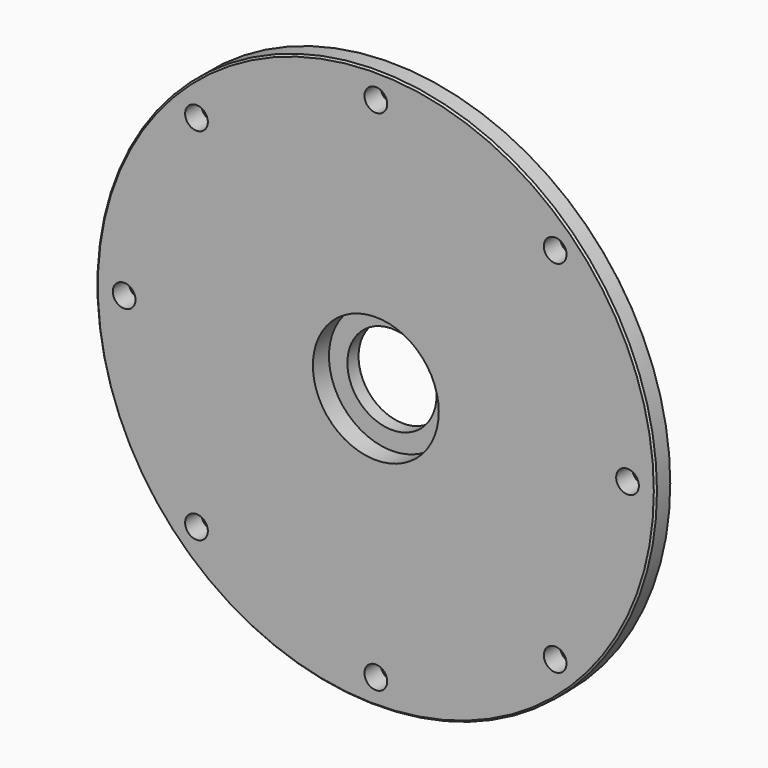
from build123d import *

# Parameters (mm, degrees)
F0_R     = 160
F0_R_2   = 6.5
F0_R_3   = 36
F1_DEPTH = 11.5
F2_SIZE  = 1
F3_R     = 122
F3_R_2   = 36
F3_R_3   = 25.5
F4_DEPTH = 8
F5_SIZE  = 1


with BuildPart() as f1:
    # F0 (on Front) → F1 (new body)
    with BuildSketch(Plane.XZ):
        with Locations((-53.132202721, 5.1132893958)):
            Circle(F0_R)
        with Locations((-155.6978265414, -97.8607830485)):
            Circle(F0_R_2, mode=Mode.SUBTRACT)
        with Locations((-53.132202721, -140.2307106042)):
            Circle(F0_R_2, mode=Mode.SUBTRACT)
        with Locations((49.4334210995, -97.8607830485)):
            Circle(F0_R_2, mode=Mode.SUBTRACT)
        with Locations((90.8079806329, 5.1103962891)):
            Circle(F0_R_2, mode=Mode.SUBTRACT)
        with Locations((-197.0651851107, 5.1132893958)):
            Circle(F0_R_2, mode=Mode.SUBTRACT)
        with Locations((-155.6978265414, 108.08736184)):
            Circle(F0_R_2, mode=Mode.SUBTRACT)
        with Locations((-53.132202721, 5.1132893958)):
            Circle(F0_R_3, mode=Mode.SUBTRACT)
        with Locations((-53.132202721, 150.4572893958)):
            Circle(F0_R_2, mode=Mode.SUBTRACT)
        with Locations((49.4375604441, 108.0832387485)):
            Circle(F0_R_2, mode=Mode.SUBTRACT)
    extrude(amount=F1_DEPTH)

    # F2
    f2_edges = [f1.edges().sort_by_distance(p)[0] for p in [
        (-213.132203, 0, 5.113289),
        (-213.132203, -11.5, 5.113289),
    ]]
    chamfer(f2_edges, length=F2_SIZE)

    # F3 (on face) → F4 (join)
    with BuildSketch(Plane.XZ):
        with Locations((-53.1101636589, 5.1305745728)):
            Circle(F3_R)
        with Locations((-53.132202721, 5.1132893958)):
            Circle(F3_R_2, mode=Mode.SUBTRACT)
        with Locations((-53.132202721, 5.1132893958)):
            Circle(F3_R_2)
        with Locations((-53.1101636589, 5.1305745728)):
            Circle(F3_R_3, mode=Mode.SUBTRACT)
    extrude(amount=-F4_DEPTH)

    # F5
    f5_edges = [f1.edges().sort_by_distance(p)[0] for p in [
        (-175.110164, 8, 5.130575),
    ]]
    chamfer(f5_edges, length=F5_SIZE)


solid = f1.part
